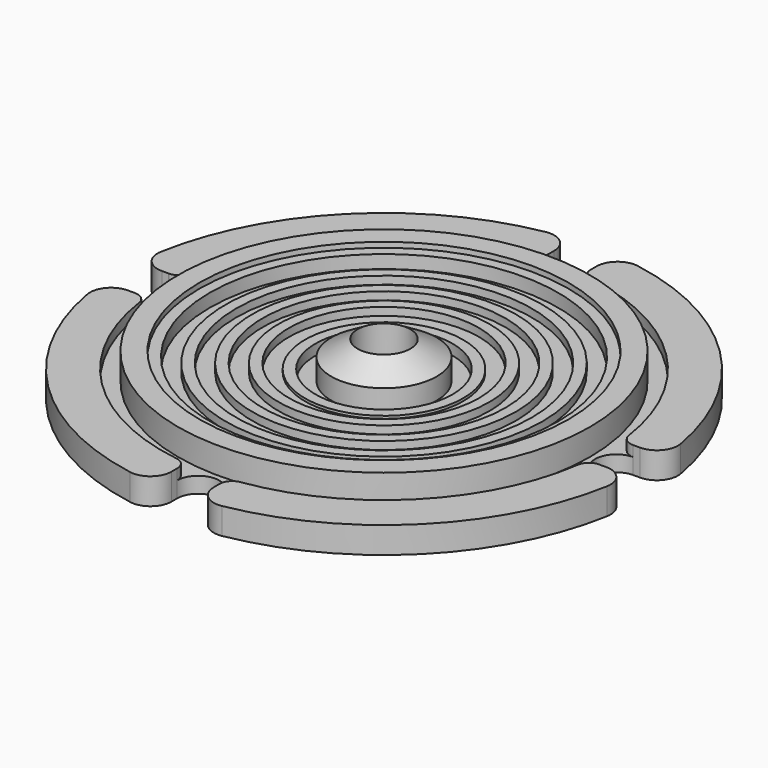
from build123d import *

# Parameters (mm, degrees)
SKETCH_R              = 25
SKETCH_R_2            = 2.5
PAD_DEPTH             = 4
SKETCH001_R           = 25
SKETCH001_R_2         = 19.5
POCKET_DEPTH          = 1.5
SKETCH002_R           = 21
SKETCH002_R_2         = 19.5
POCKET001_DEPTH       = 1
POCKET002_DEPTH       = 5
POLARPATTERN_COUNT    = 4
FILLET_R              = 2
FILLET001_R           = 1.2
SKETCH004_R           = 17.5
POCKET003_DEPTH       = 0.5
SKETCH005_R           = 16.5
SKETCH005_R_2         = 15
POCKET004_DEPTH       = 1.25
SKETCH006_R           = 14
SKETCH006_R_2         = 12.5
POCKET005_DEPTH       = 1.25
SKETCH007_R           = 11.5
SKETCH007_R_2         = 10
POCKET006_DEPTH       = 1.25
SKETCH008_R           = 9
SKETCH008_R_2         = 7.5
POCKET007_DEPTH       = 1.25
SKETCH009_R           = 6.5
SKETCH009_R_2         = 5
POCKET008_DEPTH       = 2
REVOLUTION_FACE59_R   = 15
REVOLUTION_FACE59_R_2 = 14
POCKET009_DEPTH       = 0.5
POCKET009_FACE67_R    = 12.5
POCKET009_FACE67_R_2  = 11.5
POCKET010_DEPTH       = 0.5
POCKET010_FACE64_R    = 10
POCKET010_FACE64_R_2  = 9
POCKET011_DEPTH       = 0.5
POCKET011_FACE56_R    = 7.5
POCKET011_FACE56_R_2  = 6.5
POCKET012_DEPTH       = 0.5
POCKET012_FACE56_R    = 7.5
POCKET012_FACE56_R_2  = 6.5
POCKET013_DEPTH       = 0.5


with BuildPart() as part:
    # Sketch → Pad (new body)
    with BuildSketch(Plane.XY):
        Circle(SKETCH_R)
        Circle(SKETCH_R_2, mode=Mode.SUBTRACT)
    extrude(amount=PAD_DEPTH)

    # Sketch001 (on Face4 of Pad) → Pocket (cut)
    with BuildSketch(Plane.XY.offset(4)):
        Circle(SKETCH001_R)
        Circle(SKETCH001_R_2, mode=Mode.SUBTRACT)
    extrude(amount=-POCKET_DEPTH, mode=Mode.SUBTRACT)

    # Sketch002 (on Face3 of Pocket) → Pocket001 (cut)
    with BuildSketch(Plane.XY.offset(2.5)):
        Circle(SKETCH002_R)
        Circle(SKETCH002_R_2, mode=Mode.SUBTRACT)
    extrude(amount=-POCKET001_DEPTH, mode=Mode.SUBTRACT)

    # Sketch003 (on Face3 of Pocket001) → Pocket002 (cut)
    with BuildSketch(Plane.XY.offset(2.5)):
        with BuildLine():
            Line((22, 2), (27, 2))
            Line((27, 2), (27, -2))
            Line((27, -2), (22, -2))
            ThreePointArc((22, 2), (20, 0), (22, -2))
        make_face()
    pocket002 = extrude(amount=-POCKET002_DEPTH, mode=Mode.SUBTRACT)

    # PolarPattern: Pocket002 ×4 about axis
    polarpattern_axis = Axis((0, 0, 0), (0, 0, 1))
    for i in range(1, POLARPATTERN_COUNT):
        add(pocket002.rotate(polarpattern_axis, i * 360 / POLARPATTERN_COUNT), mode=Mode.SUBTRACT)

    # Fillet
    fillet_edges = [part.edges().sort_by_distance(p)[0] for p in [
        (-2, -24.919872, 1.25),
        (2, -24.919872, 1.25),
        (24.919872, 2, 1.25),
        (24.919872, -2, 1.25),
        (-2, 24.919872, 1.25),
        (2, 24.919872, 1.25),
        (-24.919872, 2, 1.25),
        (-24.919872, -2, 1.25),
    ]]
    fillet(fillet_edges, radius=FILLET_R)

    # Fillet001
    fillet001_edges = [part.edges().sort_by_distance(p)[0] for p in [
        (1.690854, -20.931818, 2),
        (-1.690854, -20.931818, 2),
        (-20.931818, 1.690854, 2),
        (-20.931818, -1.690854, 2),
        (-1.690854, 20.931818, 2),
        (1.690854, 20.931818, 2),
        (20.931818, 1.690854, 2),
        (20.931818, -1.690854, 2),
    ]]
    fillet(fillet001_edges, radius=FILLET001_R)

    # Sketch004 (on Face46 of Fillet001) → Pocket003 (cut)
    with BuildSketch(Plane.XY.offset(4)):
        Circle(SKETCH004_R)
    extrude(amount=-POCKET003_DEPTH, mode=Mode.SUBTRACT)

    # Sketch005 (on Face46 of Pocket003) → Pocket004 (cut)
    with BuildSketch(Plane.XY.offset(3.5)):
        Circle(SKETCH005_R)
        Circle(SKETCH005_R_2, mode=Mode.SUBTRACT)
    extrude(amount=-POCKET004_DEPTH, mode=Mode.SUBTRACT)

    # Sketch006 (on Face46 of Pocket004) → Pocket005 (cut)
    with BuildSketch(Plane.XY.offset(3.5)):
        Circle(SKETCH006_R)
        Circle(SKETCH006_R_2, mode=Mode.SUBTRACT)
    extrude(amount=-POCKET005_DEPTH, mode=Mode.SUBTRACT)

    # Sketch007 (on Face46 of Pocket005) → Pocket006 (cut)
    with BuildSketch(Plane.XY.offset(3.5)):
        Circle(SKETCH007_R)
        Circle(SKETCH007_R_2, mode=Mode.SUBTRACT)
    extrude(amount=-POCKET006_DEPTH, mode=Mode.SUBTRACT)

    # Sketch008 (on Face46 of Pocket006) → Pocket007 (cut)
    with BuildSketch(Plane.XY.offset(3.5)):
        Circle(SKETCH008_R)
        Circle(SKETCH008_R_2, mode=Mode.SUBTRACT)
    extrude(amount=-POCKET007_DEPTH, mode=Mode.SUBTRACT)

    # Sketch009 (on Face46 of Pocket007) → Pocket008 (cut)
    with BuildSketch(Plane.XY.offset(3.5)):
        Circle(SKETCH009_R)
        Circle(SKETCH009_R_2, mode=Mode.SUBTRACT)
    extrude(amount=-POCKET008_DEPTH, mode=Mode.SUBTRACT)

    # Sketch010 → Revolution (revolve)
    with BuildSketch(Plane.XZ):
        Polygon((2.5, 3.5), (5, 3.5), (2.5, 5), align=None)
    revolve(axis=Axis((0, 0, 0), (0, 0, 1)))

    # Revolution Face59 → Pocket009 (cut)
    with BuildSketch(Plane(origin=(0, 0, 3.5), x_dir=(0, 1, 0), z_dir=(0, 0, 1))):
        Circle(REVOLUTION_FACE59_R)
        Circle(REVOLUTION_FACE59_R_2, mode=Mode.SUBTRACT)
    extrude(amount=-POCKET009_DEPTH, mode=Mode.SUBTRACT)

    # Pocket009 Face67 → Pocket010 (cut)
    with BuildSketch(Plane(origin=(0, 0, 3.5), x_dir=(0, 1, 0), z_dir=(0, 0, 1))):
        Circle(POCKET009_FACE67_R)
        Circle(POCKET009_FACE67_R_2, mode=Mode.SUBTRACT)
    extrude(amount=-POCKET010_DEPTH, mode=Mode.SUBTRACT)

    # Pocket010 Face64 → Pocket011 (cut)
    with BuildSketch(Plane(origin=(0, 0, 3.5), x_dir=(0, 1, 0), z_dir=(0, 0, 1))):
        Circle(POCKET010_FACE64_R)
        Circle(POCKET010_FACE64_R_2, mode=Mode.SUBTRACT)
    extrude(amount=-POCKET011_DEPTH, mode=Mode.SUBTRACT)

    # Pocket011 Face56 → Pocket012 (cut)
    with BuildSketch(Plane(origin=(0, 0, 3.5), x_dir=(0, 1, 0), z_dir=(0, 0, 1))):
        Circle(POCKET011_FACE56_R)
        Circle(POCKET011_FACE56_R_2, mode=Mode.SUBTRACT)
    extrude(amount=-POCKET012_DEPTH, mode=Mode.SUBTRACT)

    # Pocket012 Face56 → Pocket013 (cut)
    with BuildSketch(Plane(origin=(0, 0, 3), x_dir=(0, 1, 0), z_dir=(0, 0, 1))):
        Circle(POCKET012_FACE56_R)
        Circle(POCKET012_FACE56_R_2, mode=Mode.SUBTRACT)
    extrude(amount=-POCKET013_DEPTH, mode=Mode.SUBTRACT)


solid = part.part
